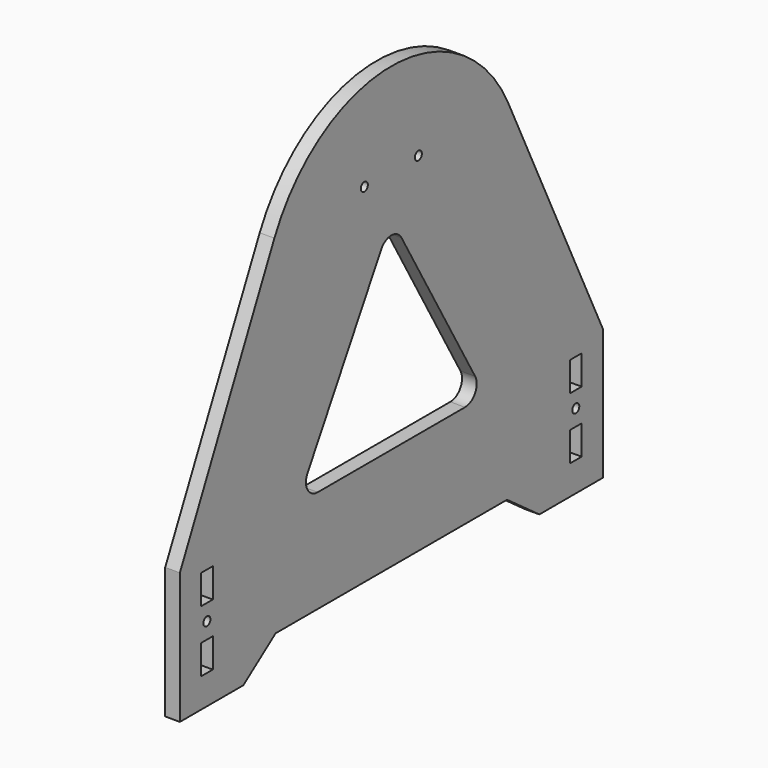
from build123d import *

# Parameters (mm, degrees)
F0_W     = 5
F0_H     = 10
F0_R     = 1.5
F1_DEPTH = 5


with BuildPart() as f1:
    # F0 (on Right) → F1 (new body)
    with BuildSketch(Plane.YZ):
        with BuildLine():
            Line((-49.252273, 0), (0, 0))
            Line((0, 0), (49.252273, 0))
            Line((49.252273, 0), (63, -10))
            Line((63, -10), (90, -10))
            Line((90, -10), (90, 34.716521))
            Line((90, 34.716521), (49.783408, 118.650452))
            ThreePointArc((49.783408, 118.650452), (0, 150), (-49.783408, 118.650452))
            Line((-49.783408, 118.650452), (-90, 34.716521))
            Line((-90, 34.716521), (-90, -10))
            Line((-90, -10), (-63, -10))
            Line((-63, -10), (-49.252273, 0))
        make_face()
        with Locations((-78.5, 5)):
            Rectangle(F0_W, F0_H, mode=Mode.SUBTRACT)
        with Locations((-78.5, 15.5)):
            Circle(F0_R, mode=Mode.SUBTRACT)
        with Locations((-78.5, 26)):
            Rectangle(F0_W, F0_H, mode=Mode.SUBTRACT)
        with Locations((78.5, 5)):
            Rectangle(F0_W, F0_H, mode=Mode.SUBTRACT)
        with Locations((78.5, 15.5)):
            Circle(F0_R, mode=Mode.SUBTRACT)
        with Locations((78.5, 26)):
            Rectangle(F0_W, F0_H, mode=Mode.SUBTRACT)
        with BuildLine():
            Line((-35.669873, 42.5), (-4.330127, 96.782032))
            ThreePointArc((-4.330127, 96.782032), (0, 99.282032), (4.330127, 96.782032))
            Line((4.330127, 96.782032), (35.669873, 42.5))
            ThreePointArc((35.669873, 42.5), (35.669873, 37.5), (31.339746, 35))
            Line((31.339746, 35), (-31.339746, 35))
            ThreePointArc((-31.339746, 35), (-35.669873, 37.5), (-35.669873, 42.5))
        make_face(mode=Mode.SUBTRACT)
        with Locations((-11.5, 118.5)):
            Circle(F0_R, mode=Mode.SUBTRACT)
        with Locations((11.5, 118.5)):
            Circle(F0_R, mode=Mode.SUBTRACT)
    extrude(amount=F1_DEPTH)


solid = f1.part
